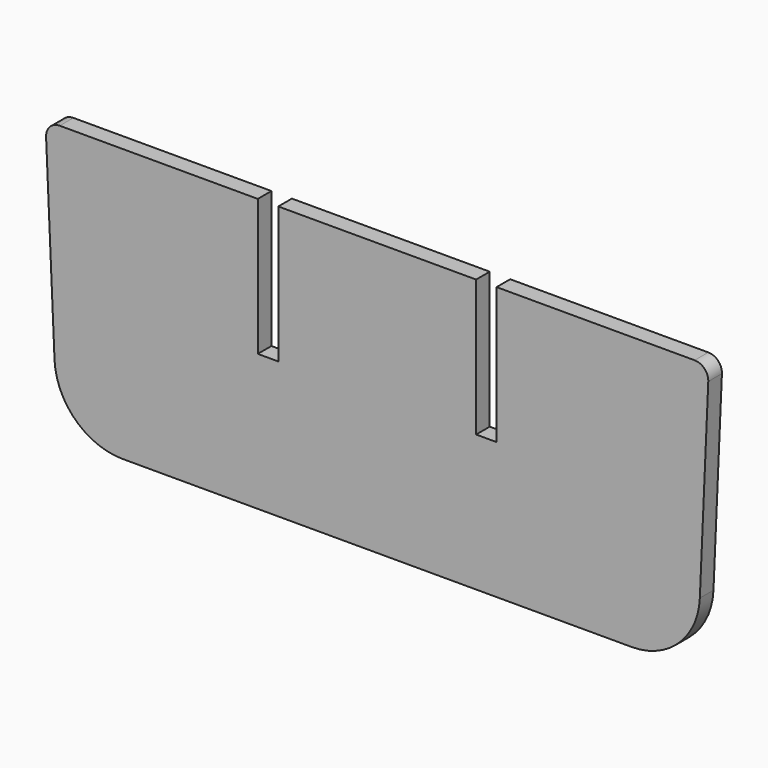
from build123d import *

# Parameters (mm, degrees)
F1_DEPTH = 3.175
F2_W     = 7.62
F2_H     = 50.8
F3_DEPTH = 12.7
F4_R     = 25.4
F5_R     = 5.08


with BuildPart() as f1:
    # F0 (on Front) → F1 (new body, symmetric)
    with BuildSketch(Plane.XZ):
        Polygon((123.498452, 101.6), (-123.498452, 101.6), (-119.0625, 0), (119.0625, 0), align=None)
    extrude(amount=F1_DEPTH, both=True)

    # F2 (on Front) → F3 (cut, symmetric)
    with BuildSketch(Plane.XZ):
        with Locations((-40.64, 76.2)):
            Rectangle(F2_W, F2_H)
        with Locations((40.64, 76.2)):
            Rectangle(F2_W, F2_H)
    extrude(amount=F3_DEPTH, both=True, mode=Mode.SUBTRACT)

    # F4
    f4_edges = [f1.edges().sort_by_distance(p)[0] for p in [
        (-119.0625, 0, 0),
        (119.0625, 0, 0),
    ]]
    fillet(f4_edges, radius=F4_R)

    # F5
    f5_edges = [f1.edges().sort_by_distance(p)[0] for p in [
        (-123.498452, 0, 101.6),
        (123.498452, 0, 101.6),
    ]]
    fillet(f5_edges, radius=F5_R)


solid = f1.part
